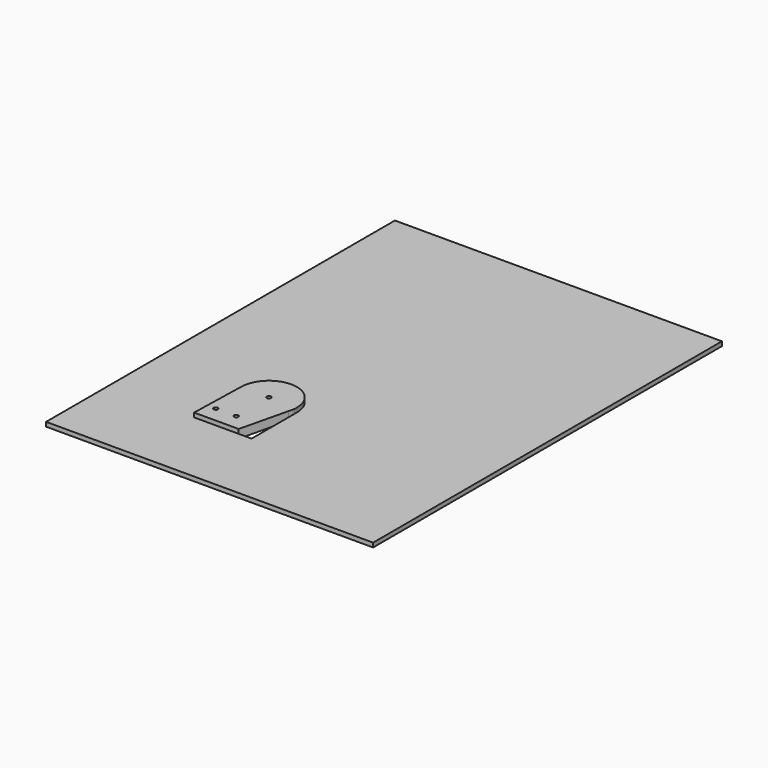
from build123d import *

# Parameters (mm, degrees)
F1_DEPTH = 6
F0_W     = 228.6
F0_H     = 304.8
F2_DEPTH = 3


with BuildPart() as f1:
    # F0 (on Top) → F1 (new body)
    with BuildSketch(Plane.XY):
        with BuildLine():
            Line((19.558, 17.5422988832), (19.558, 19.5899201751))
            ThreePointArc((19.558, 19.5899201751), (19.4987310228, 18.0684562421), (19.3212833112, 16.5562136621))
            Line((19.3212833112, 16.5562136621), (19.558, 17.5422988832))
        make_face()
        with BuildLine():
            Line((1.5, 19.5899201751), (19.558, 19.5899201751))
            ThreePointArc((19.558, 19.5899201751), (-0.0281086289, 39.1478999763), (-19.5579192049, 19.5337029753))
            ThreePointArc((-19.5579192049, 19.5337029753), (-13.8097043416, 5.7404642292), (0, 0.0319201751))
            Line((0, 0.0319201751), (0, 18.0899201751))
            ThreePointArc((0, 18.0899201751), (-1.0606601718, 20.6505803469), (1.5, 19.5899201751))
        make_face()
        with BuildLine():
            ThreePointArc((0, 0.0319201751), (-13.8097043416, 5.7404642292), (-19.5579192049, 19.5337029753))
            Line((-19.5579192049, 19.5337029753), (-20.574, -20.0340798249))
            Line((-20.574, -20.0340798249), (10.5375261573, -20.0340798249))
            Line((10.5375261573, -20.0340798249), (18.5929127749, 13.5220574091))
            ThreePointArc((18.5929127749, 13.5220574091), (11.4856454765, 3.7597176499), (0, 0.0319201751))
        make_face()
        with BuildLine():
            ThreePointArc((-12.7889, -8.9850798249), (-15.3471702223, -10.0447500472), (-14.2875, -7.4864798249))
            ThreePointArc((-14.2875, -7.4864798249), (-13.2278297777, -7.9254096026), (-12.7889, -8.9850798249))
        make_face(mode=Mode.SUBTRACT)
        with BuildLine():
            ThreePointArc((1.5, -8.9850798249), (-1.0606601718, -10.0457399967), (0, -7.4850798249))
            ThreePointArc((0, -7.4850798249), (1.0606601718, -7.9244196531), (1.5, -8.9850798249))
        make_face(mode=Mode.SUBTRACT)
        with BuildLine():
            ThreePointArc((19.3212833112, 16.5562136621), (19.4987310228, 18.0684562421), (19.558, 19.5899201751))
            Line((19.558, 19.5899201751), (1.5, 19.5899201751))
            ThreePointArc((1.5, 19.5899201751), (1.0606601718, 18.5292600033), (0, 18.0899201751))
            Line((0, 18.0899201751), (0, 0.0319201751))
            ThreePointArc((0, 0.0319201751), (11.4856454765, 3.7597176499), (18.5929127749, 13.5220574091))
            Line((18.5929127749, 13.5220574091), (19.3212833112, 16.5562136621))
        make_face()
    extrude(amount=F1_DEPTH)

    # F0 (on Top) → F2 (join)
    with BuildSketch(Plane.XY):
        with Locations((33.862138617, 77.8095703363)):
            Rectangle(F0_W, F0_H)
        with BuildLine():
            ThreePointArc((-19.5579192049, 19.5337029753), (-0.0281086289, 39.1478999763), (19.558, 19.5899201751))
            Line((19.558, 19.5899201751), (19.558, 17.5422988832))
            Line((19.558, 17.5422988832), (19.558, -20.0340798249))
            Line((19.558, -20.0340798249), (10.5375261573, -20.0340798249))
            Line((10.5375261573, -20.0340798249), (-20.574, -20.0340798249))
            Line((-20.574, -20.0340798249), (-19.5579192049, 19.5337029753))
        make_face(mode=Mode.SUBTRACT)
    extrude(amount=F2_DEPTH)


solid = f1.part
